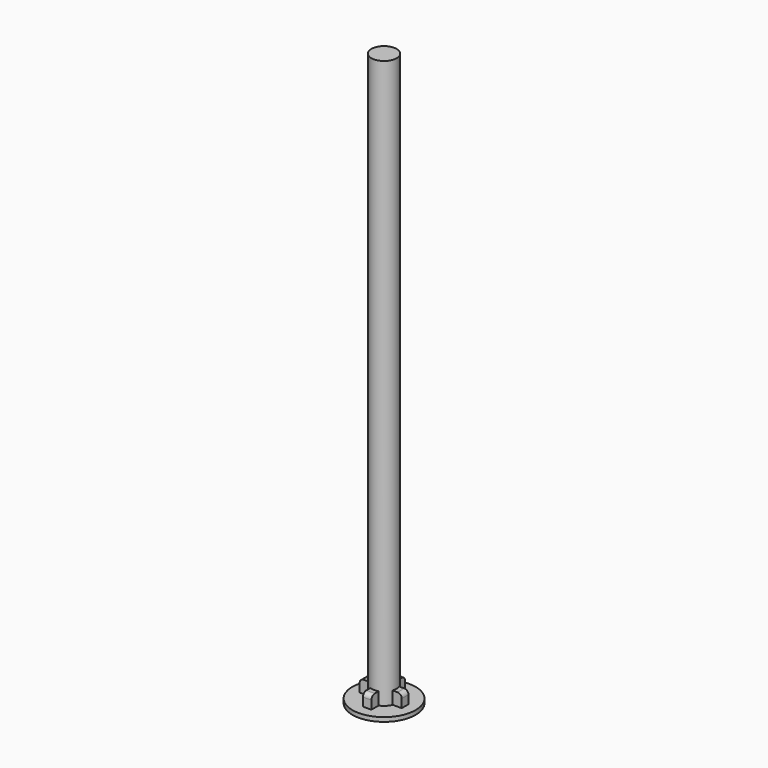
from build123d import *

# Parameters (mm, degrees)
PAD002_DEPTH = 3
FILLET003_R  = 1


with BuildPart() as revolution001:
    # Sketch005 → Revolution001 (revolve)
    with BuildSketch(Plane.XZ):
        Polygon((0, 0), (7.5, 0), (7.5, 1), (3, 1), (3, 135.736657), (0, 135.736657), align=None)
    revolve(axis=Axis((0, 0, 0), (0, 0, 1)))


with BuildPart() as pad002:
    # Pad002 base: copy of Revolution001
    add(revolution001.part)

    # Sketch006 → Pad002 (new body)
    with BuildSketch(Plane(origin=(0, 0, 1), x_dir=(-1, 0, 0), z_dir=(0, 0, 1))):
        Polygon((-5, 1), (-5, -1), (-1, -1), (-1, -5), (1, -5), (1, -1), (5, -1), (5, 1), (1, 1), (1, 5), (-1, 5), (-1, 1), align=None)
    extrude(amount=PAD002_DEPTH)


with BuildPart() as fillet003:
    # Fusion001 base: copy of Revolution001
    add(revolution001.part)

    # Fusion001: union Pad002
    add(pad002.part)

    # Fillet003
    fillet003_edges = [fillet003.edges().sort_by_distance(p)[0] for p in [
        (0, 5, 4),
        (-5, 0, 4),
        (0, -5, 4),
        (5, 0, 4),
    ]]
    fillet(fillet003_edges, radius=FILLET003_R)


solid = fillet003.part
